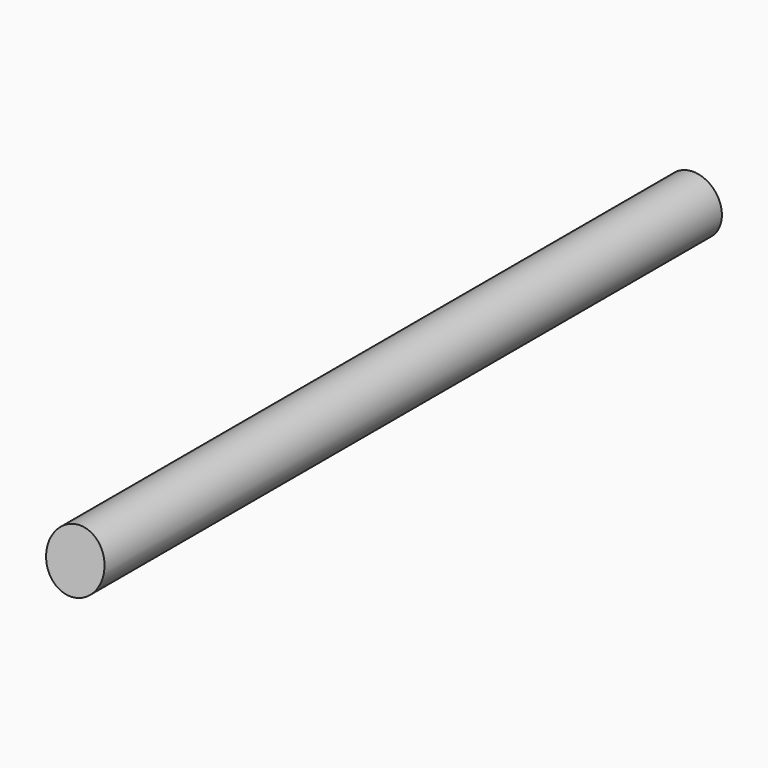
from build123d import *

# Parameters (mm, degrees)
F0_R          = 20
F1_DEPTH      = 540
F3_DEPTH      = 25
F3_DEPTH_BACK = 25


with BuildPart() as f1:
    # F0 (on Front) → F1 (new body)
    with BuildSketch(Plane.XZ):
        Circle(F0_R)
    extrude(amount=-F1_DEPTH)

    # F2 (on Right) → F3 (cut, two sides)
    with BuildSketch(Plane.YZ) as f3_sk:
        Polygon((0, 20), (0, -20), (8.5022624668, 20), align=None)
    extrude(amount=-F3_DEPTH, mode=Mode.SUBTRACT)
    extrude(f3_sk.sketch, amount=F3_DEPTH_BACK, mode=Mode.SUBTRACT)


solid = f1.part
